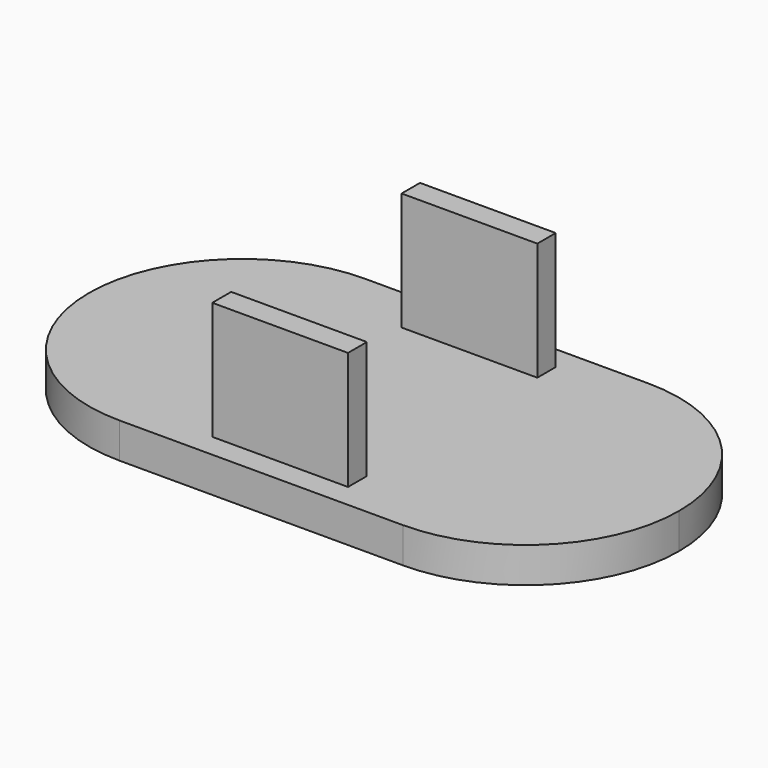
from build123d import *

# Parameters (mm, degrees)
F1_DEPTH = 10
F2_DEPTH = 3


with BuildPart() as f1:
    # F0 (on Top) → F1 (new body)
    with BuildSketch(Plane.XY):
        with BuildLine():
            Line((30.0717967697, 24), (19.9282032303, 24))
            ThreePointArc((19.9282032303, 24), (21.18761006, 23.0976750545), (22.3307288033, 22.0519334951))
            Line((22.3307288033, 22.0519334951), (27.6692711967, 22.0519334951))
            ThreePointArc((27.6692711967, 22.0519334951), (28.81238994, 23.0976750545), (30.0717967697, 24))
        make_face()
        with BuildLine():
            ThreePointArc((22.3307288033, 22.0519334951), (21.18761006, 23.0976750545), (19.9282032303, 24))
            Line((19.9282032303, 24), (19.25, 24))
            Line((19.25, 24), (19.25, 22.0519334951))
            Line((19.25, 22.0519334951), (22.3307288033, 22.0519334951))
        make_face()
        with BuildLine():
            Line((30.75, 24), (30.0717967697, 24))
            ThreePointArc((30.0717967697, 24), (28.81238994, 23.0976750545), (27.6692711967, 22.0519334951))
            Line((27.6692711967, 22.0519334951), (30.75, 22.0519334951))
            Line((30.75, 22.0519334951), (30.75, 24))
        make_face()
    extrude(amount=F1_DEPTH)


with BuildPart() as f1b:
    # F0 (on Top) → F1, piece 2 (new body)
    with BuildSketch(Plane.XY):
        with BuildLine():
            ThreePointArc((22.3808315196, 4), (21.2156042759, 2.9250882693), (19.9282032303, 2))
            Line((19.9282032303, 2), (30.0717967697, 2))
            ThreePointArc((30.0717967697, 2), (28.7843957241, 2.9250882693), (27.6191684804, 4))
            Line((27.6191684804, 4), (22.3808315196, 4))
        make_face()
        with BuildLine():
            Line((19.25, 2), (19.9282032303, 2))
            ThreePointArc((19.9282032303, 2), (21.2156042759, 2.9250882693), (22.3808315196, 4))
            Line((22.3808315196, 4), (19.3245553203, 4))
            ThreePointArc((19.3245553203, 4), (19.2873312819, 3.9739562735), (19.25, 3.9480665049))
            Line((19.25, 3.9480665049), (19.25, 2))
        make_face()
        with BuildLine():
            ThreePointArc((27.6191684804, 4), (28.7843957241, 2.9250882693), (30.0717967697, 2))
            Line((30.0717967697, 2), (30.75, 2))
            Line((30.75, 2), (30.75, 3.9480665049))
            ThreePointArc((30.75, 3.9480665049), (30.7126687181, 3.9739562735), (30.6754446797, 4))
            Line((30.6754446797, 4), (27.6191684804, 4))
        make_face()
    extrude(amount=F1_DEPTH)


with BuildPart() as f2:
    # F0 (on Top) → F2 (new body)
    with BuildSketch(Plane.XY):
        with BuildLine():
            ThreePointArc((37, 0), (46.1923881554, 3.8076118446), (50, 13))
            Line((50, 13), (48, 13))
            ThreePointArc((48, 13), (44.7781745931, 5.2218254069), (37, 2))
            Line((37, 2), (37, 0))
        make_face()
        with BuildLine():
            ThreePointArc((50, 13), (46.1923881554, 22.1923881554), (37, 26))
            ThreePointArc((37, 26), (33.3944487245, 25.4899959968), (30.0717967697, 24))
            Line((30.0717967697, 24), (30.75, 24))
            Line((30.75, 24), (37, 24))
            ThreePointArc((37, 24), (44.7781745931, 20.7781745931), (48, 13))
            Line((48, 13), (50, 13))
        make_face()
        with BuildLine():
            Line((37, 13), (48, 13))
            ThreePointArc((48, 13), (44.7781745931, 20.7781745931), (37, 24))
            ThreePointArc((37, 24), (33.7267194167, 23.5016967307), (30.75, 22.0519334951))
            ThreePointArc((30.75, 22.0519334951), (27.2596201306, 18.1112620751), (26, 13))
            ThreePointArc((26, 13), (27.238593633, 7.9290093928), (30.6754446797, 4))
            Line((30.6754446797, 4), (30.75, 4))
            Line((30.75, 4), (30.75, 3.9480665049))
            ThreePointArc((30.75, 3.9480665049), (33.7267194167, 2.4983032693), (37, 2))
            Line((37, 2), (37, 13))
        make_face()
        with BuildLine():
            Line((37, 24), (30.75, 24))
            Line((30.75, 24), (30.75, 22.0519334951))
            ThreePointArc((30.75, 22.0519334951), (33.7267194167, 23.5016967307), (37, 24))
        make_face()
        with BuildLine():
            Line((30.75, 24), (30.0717967697, 24))
            ThreePointArc((30.0717967697, 24), (28.81238994, 23.0976750545), (27.6692711967, 22.0519334951))
            Line((27.6692711967, 22.0519334951), (30.75, 22.0519334951))
            Line((30.75, 22.0519334951), (30.75, 24))
        make_face()
        with BuildLine():
            ThreePointArc((26, 13), (25.747548784, 15.5495097568), (25, 18))
            ThreePointArc((25, 18), (24.252451216, 15.5495097568), (24, 13))
            ThreePointArc((24, 13), (24.252451216, 10.4504902432), (25, 8))
            ThreePointArc((25, 8), (25.747548784, 10.4504902432), (26, 13))
        make_face()
        with BuildLine():
            ThreePointArc((30.6754446797, 4), (27.238593633, 7.9290093928), (26, 13))
            ThreePointArc((26, 13), (25.747548784, 10.4504902432), (25, 8))
            ThreePointArc((25, 8), (26.1241097322, 5.8785527537), (27.6191684804, 4))
            Line((27.6191684804, 4), (30.6754446797, 4))
        make_face()
        with BuildLine():
            ThreePointArc((27.6191684804, 4), (28.7843957241, 2.9250882693), (30.0717967697, 2))
            Line((30.0717967697, 2), (30.75, 2))
            Line((30.75, 2), (30.75, 3.9480665049))
            ThreePointArc((30.75, 3.9480665049), (30.7126687181, 3.9739562735), (30.6754446797, 4))
            Line((30.6754446797, 4), (27.6191684804, 4))
        make_face()
        with BuildLine():
            Line((30.75, 2), (37, 2))
            ThreePointArc((37, 2), (33.7267194167, 2.4983032693), (30.75, 3.9480665049))
            Line((30.75, 3.9480665049), (30.75, 2))
        make_face()
        with BuildLine():
            ThreePointArc((30.0717967697, 2), (33.3944487245, 0.5100040032), (37, 0))
            Line((37, 0), (37, 2))
            Line((37, 2), (30.75, 2))
            Line((30.75, 2), (30.0717967697, 2))
        make_face()
        with BuildLine():
            Line((30.75, 22.0519334951), (27.6692711967, 22.0519334951))
            ThreePointArc((27.6692711967, 22.0519334951), (26.1439169549, 20.1516054784), (25, 18))
            ThreePointArc((25, 18), (25.747548784, 15.5495097568), (26, 13))
            ThreePointArc((26, 13), (27.2596201306, 18.1112620751), (30.75, 22.0519334951))
        make_face()
        with BuildLine():
            Line((27.6692711967, 22.0519334951), (22.3307288033, 22.0519334951))
            ThreePointArc((22.3307288033, 22.0519334951), (23.8560830451, 20.1516054784), (25, 18))
            ThreePointArc((25, 18), (26.1439169549, 20.1516054784), (27.6692711967, 22.0519334951))
        make_face()
        with BuildLine():
            Line((30.0717967697, 24), (19.9282032303, 24))
            ThreePointArc((19.9282032303, 24), (21.18761006, 23.0976750545), (22.3307288033, 22.0519334951))
            Line((22.3307288033, 22.0519334951), (27.6692711967, 22.0519334951))
            ThreePointArc((27.6692711967, 22.0519334951), (28.81238994, 23.0976750545), (30.0717967697, 24))
        make_face()
        with BuildLine():
            ThreePointArc((22.3307288033, 22.0519334951), (21.18761006, 23.0976750545), (19.9282032303, 24))
            Line((19.9282032303, 24), (19.25, 24))
            Line((19.25, 24), (19.25, 22.0519334951))
            Line((19.25, 22.0519334951), (22.3307288033, 22.0519334951))
        make_face()
        with BuildLine():
            ThreePointArc((25, 18), (23.8560830451, 20.1516054784), (22.3307288033, 22.0519334951))
            Line((22.3307288033, 22.0519334951), (19.25, 22.0519334951))
            ThreePointArc((19.25, 22.0519334951), (22.7403798694, 18.1112620751), (24, 13))
            ThreePointArc((24, 13), (24.252451216, 15.5495097568), (25, 18))
        make_face()
        with BuildLine():
            ThreePointArc((13, 24), (5.2218254069, 20.7781745931), (2, 13))
            Line((2, 13), (13, 13))
            Line((13, 13), (13, 2))
            ThreePointArc((13, 2), (16.2732805833, 2.4983032693), (19.25, 3.9480665049))
            Line((19.25, 3.9480665049), (19.25, 4))
            Line((19.25, 4), (19.3245553203, 4))
            ThreePointArc((19.3245553203, 4), (22.761406367, 7.9290093928), (24, 13))
            ThreePointArc((24, 13), (22.7403798694, 18.1112620751), (19.25, 22.0519334951))
            ThreePointArc((19.25, 22.0519334951), (16.2732805833, 23.5016967307), (13, 24))
        make_face()
        with BuildLine():
            Line((19.3245553203, 4), (22.3808315196, 4))
            ThreePointArc((22.3808315196, 4), (23.8758902678, 5.8785527537), (25, 8))
            ThreePointArc((25, 8), (24.252451216, 10.4504902432), (24, 13))
            ThreePointArc((24, 13), (22.761406367, 7.9290093928), (19.3245553203, 4))
        make_face()
        with BuildLine():
            ThreePointArc((19.25, 3.9480665049), (16.2732805833, 2.4983032693), (13, 2))
            Line((13, 2), (19.25, 2))
            Line((19.25, 2), (19.25, 3.9480665049))
        make_face()
        with BuildLine():
            Line((19.25, 2), (19.9282032303, 2))
            ThreePointArc((19.9282032303, 2), (21.2156042759, 2.9250882693), (22.3808315196, 4))
            Line((22.3808315196, 4), (19.3245553203, 4))
            ThreePointArc((19.3245553203, 4), (19.2873312819, 3.9739562735), (19.25, 3.9480665049))
            Line((19.25, 3.9480665049), (19.25, 2))
        make_face()
        with BuildLine():
            ThreePointArc((22.3808315196, 4), (21.2156042759, 2.9250882693), (19.9282032303, 2))
            Line((19.9282032303, 2), (30.0717967697, 2))
            ThreePointArc((30.0717967697, 2), (28.7843957241, 2.9250882693), (27.6191684804, 4))
            Line((27.6191684804, 4), (22.3808315196, 4))
        make_face()
        with BuildLine():
            ThreePointArc((25, 8), (23.8758902678, 5.8785527537), (22.3808315196, 4))
            Line((22.3808315196, 4), (27.6191684804, 4))
            ThreePointArc((27.6191684804, 4), (26.1241097322, 5.8785527537), (25, 8))
        make_face()
        with BuildLine():
            Line((19.25, 22.0519334951), (19.25, 24))
            Line((19.25, 24), (13, 24))
            ThreePointArc((13, 24), (16.2732805833, 23.5016967307), (19.25, 22.0519334951))
        make_face()
        with BuildLine():
            ThreePointArc((19.9282032303, 24), (16.6055512755, 25.4899959968), (13, 26))
            ThreePointArc((13, 26), (3.8076118446, 22.1923881554), (0, 13))
            Line((0, 13), (2, 13))
            ThreePointArc((2, 13), (5.2218254069, 20.7781745931), (13, 24))
            Line((13, 24), (19.25, 24))
            Line((19.25, 24), (19.9282032303, 24))
        make_face()
        with BuildLine():
            Line((13, 13), (2, 13))
            ThreePointArc((2, 13), (5.2218254069, 5.2218254069), (13, 2))
            Line((13, 2), (13, 13))
        make_face()
        with BuildLine():
            Line((2, 13), (0, 13))
            ThreePointArc((0, 13), (3.8076118446, 3.8076118446), (13, 0))
            Line((13, 0), (13, 2))
            ThreePointArc((13, 2), (5.2218254069, 5.2218254069), (2, 13))
        make_face()
        with BuildLine():
            Line((13, 2), (13, 0))
            ThreePointArc((13, 0), (16.6055512755, 0.5100040032), (19.9282032303, 2))
            Line((19.9282032303, 2), (19.25, 2))
            Line((19.25, 2), (13, 2))
        make_face()
        with BuildLine():
            ThreePointArc((19.9282032303, 2), (16.6055512755, 0.5100040032), (13, 0))
            Line((13, 0), (19.25, 0))
            Line((19.25, 0), (30.75, 0))
            Line((30.75, 0), (37, 0))
            ThreePointArc((37, 0), (33.3944487245, 0.5100040032), (30.0717967697, 2))
            Line((30.0717967697, 2), (19.9282032303, 2))
        make_face()
        with BuildLine():
            Line((37, 26), (13, 26))
            ThreePointArc((13, 26), (16.6055512755, 25.4899959968), (19.9282032303, 24))
            Line((19.9282032303, 24), (30.0717967697, 24))
            ThreePointArc((30.0717967697, 24), (33.3944487245, 25.4899959968), (37, 26))
        make_face()
        with BuildLine():
            ThreePointArc((37, 2), (44.7781745931, 5.2218254069), (48, 13))
            Line((48, 13), (37, 13))
            Line((37, 13), (37, 2))
        make_face()
    extrude(amount=-F2_DEPTH)


solid = Compound([f1.part, f1b.part, f2.part])
